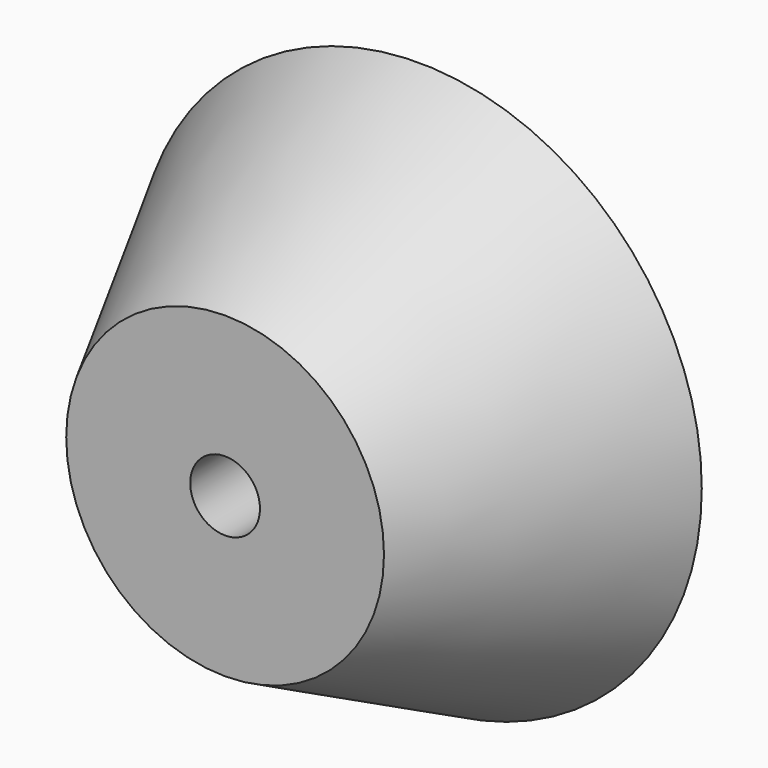
from build123d import *

# Parameters (mm, degrees)
F2_R     = 3.429
F3_DEPTH = 6.35


with BuildPart() as f1:
    # F0 (on Top) → F1 (revolve)
    with BuildSketch(Plane.XY):
        Polygon((-6.35, -2.254132), (-6.35, -14.658696), (0, -14.658696), (6.35, -2.254132), align=None)
    revolve(axis=Axis((-8.135938, -8.604132, 0), (0, -1, 0)))

    # F2 (on face) → F3 (cut)
    with BuildSketch(Plane(origin=(0, -2.254132, 0), x_dir=(-1, 0, 0), z_dir=(0, 1, 0))):
        with Locations((8.135938, 0)):
            Circle(F2_R)
    extrude(amount=-F3_DEPTH, mode=Mode.SUBTRACT)


solid = f1.part
